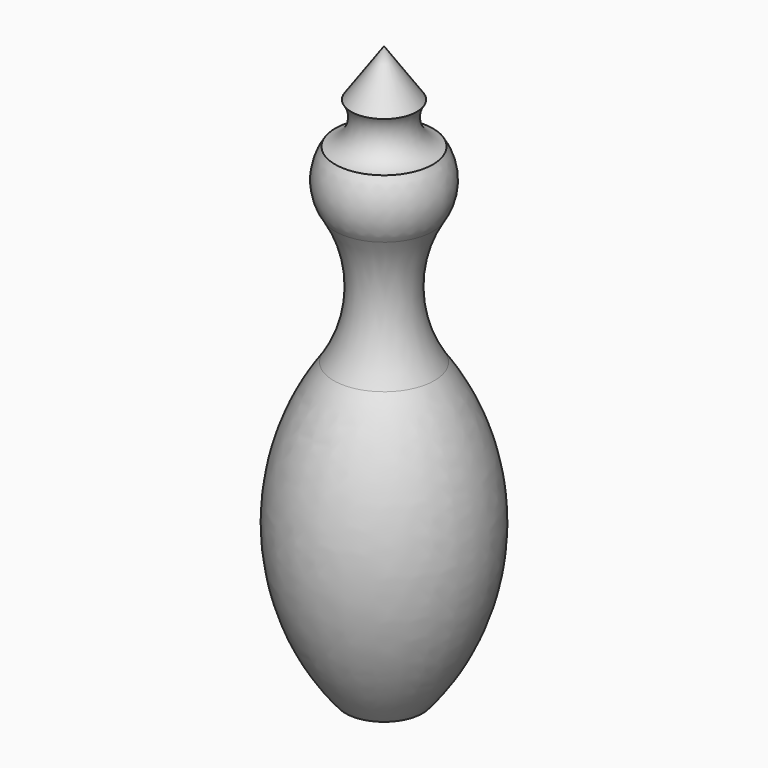
from build123d import *


with BuildPart() as f1:
    # F0 (on Front) → F1 (revolve)
    with BuildSketch(Plane.XZ):
        with BuildLine():
            Line((4.270679, -6.115414), (0, 0))
            Line((0, 0), (0, -74.618048))
            Line((0, -74.618048), (5, -74.618048))
            ThreePointArc((5, -74.618048), (12.474928, -55.624564), (6.548808, -36.092331))
            ThreePointArc((6.548808, -36.092331), (4.00118, -27.635322), (6.342401, -19.118862))
            ThreePointArc((6.342401, -19.118862), (7.5, -15.292632), (6.342401, -11.466402))
            ThreePointArc((6.342401, -11.466402), (3.875503, -9.344957), (4.270679, -6.115414))
        make_face()
    revolve(axis=Axis((0, 0, -37.309024), (0, 0, 1)))


solid = f1.part
